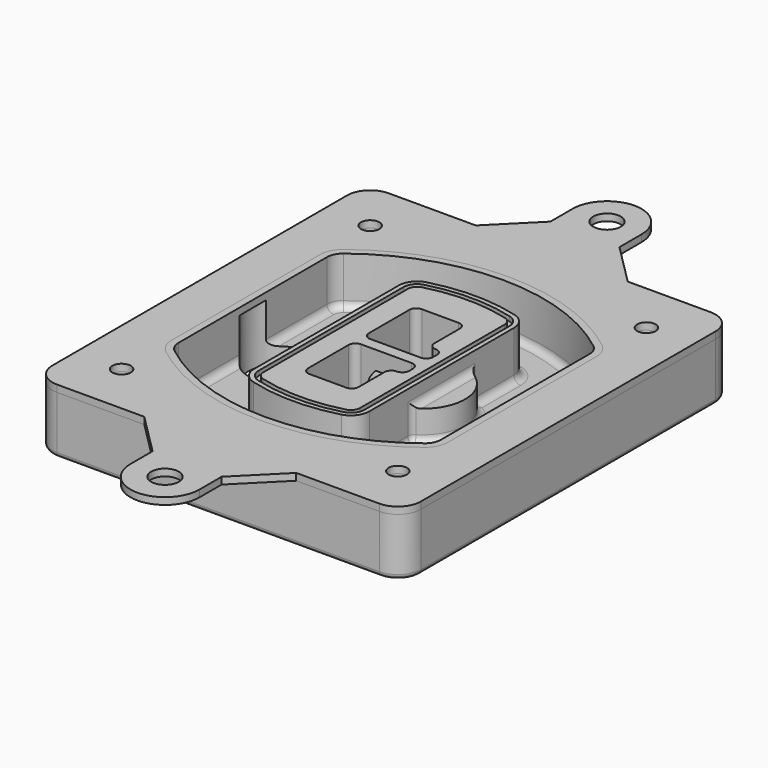
from build123d import *

# Parameters (mm, degrees)
F0_R      = 4
F1_DEPTH  = 25
F2_DEPTH  = 3
F3_DEPTH  = 18
F5_DEPTH  = 21
F6_DEPTH  = 2
F8_DEPTH  = 20
F9_DEPTH  = 16
F10_DEPTH = 25
F7_R      = 6
F7_R_2    = 4
F11_DEPTH = 6
F13_DEPTH = 9
F14_R     = 3
F15_R     = 2
F16_R     = 6
F16_R_2   = 4
F17_DEPTH = 3


with BuildPart() as f1:
    # F0 (on Top) → F1 (new body)
    with BuildSketch(Plane.XY):
        with BuildLine():
            ThreePointArc((-80, -80), (-77.0710678119, -87.0710678119), (-70, -90))
            Line((-70, -90), (70, -90))
            ThreePointArc((70, -90), (77.0710678119, -87.0710678119), (80, -80))
            Line((80, -80), (80, 80))
            ThreePointArc((80, 80), (77.0710678119, 87.0710678119), (70, 90))
            Line((70, 90), (-70, 90))
            ThreePointArc((-70, 90), (-77.0710678119, 87.0710678119), (-80, 80))
            Line((-80, 80), (-80, -80))
        make_face()
        with Locations((-60, -67.5)):
            Circle(F0_R, mode=Mode.SUBTRACT)
        with Locations((60, -67.5)):
            Circle(F0_R, mode=Mode.SUBTRACT)
        with Locations((-60, 67.5)):
            Circle(F0_R, mode=Mode.SUBTRACT)
        with BuildLine():
            ThreePointArc((-64, 40.2934422872), (-62.5820384798, 46.4328484224), (-58.6153846154, 51.3286200352))
            ThreePointArc((-58.6153846154, 51.3286200352), (0, 71.5), (58.6153846154, 51.3286200352))
            ThreePointArc((58.6153846154, 51.3286200352), (62.5820384798, 46.4328484224), (64, 40.2934422872))
            Line((64, 40.2934422872), (64, -40.2934422872))
            ThreePointArc((64, -40.2934422872), (62.5820384798, -46.4328484224), (58.6153846154, -51.3286200352))
            ThreePointArc((58.6153846154, -51.3286200352), (0, -71.5), (-58.6153846154, -51.3286200352))
            ThreePointArc((-58.6153846154, -51.3286200352), (-62.5820384798, -46.4328484224), (-64, -40.2934422872))
            Line((-64, -40.2934422872), (-64, 40.2934422872))
        make_face(mode=Mode.SUBTRACT)
        with Locations((60, 67.5)):
            Circle(F0_R, mode=Mode.SUBTRACT)
        with BuildLine():
            ThreePointArc((58.6153846154, 51.3286200352), (0, 71.5), (-58.6153846154, 51.3286200352))
            ThreePointArc((-58.6153846154, 51.3286200352), (-62.5820384798, 46.4328484224), (-64, 40.2934422872))
            Line((-64, 40.2934422872), (-64, -40.2934422872))
            ThreePointArc((-64, -40.2934422872), (-62.5820384798, -46.4328484224), (-58.6153846154, -51.3286200352))
            ThreePointArc((-58.6153846154, -51.3286200352), (0, -71.5), (58.6153846154, -51.3286200352))
            ThreePointArc((58.6153846154, -51.3286200352), (62.5820384798, -46.4328484224), (64, -40.2934422872))
            Line((64, -40.2934422872), (64, 40.2934422872))
            ThreePointArc((64, 40.2934422872), (62.5820384798, 46.4328484224), (58.6153846154, 51.3286200352))
        make_face()
        with BuildLine():
            Line((-60, -40.2934422872), (-60, 40.2934422872))
            ThreePointArc((-60, 40.2934422872), (-58.9871703427, 44.6787323838), (-56.1538461538, 48.1757121072))
            ThreePointArc((-56.1538461538, 48.1757121072), (0, 67.5), (56.1538461538, 48.1757121072))
            ThreePointArc((56.1538461538, 48.1757121072), (58.9871703427, 44.6787323838), (60, 40.2934422872))
            Line((60, 40.2934422872), (60, -40.2934422872))
            ThreePointArc((60, -40.2934422872), (58.9871703427, -44.6787323838), (56.1538461538, -48.1757121072))
            ThreePointArc((56.1538461538, -48.1757121072), (0, -67.5), (-56.1538461538, -48.1757121072))
            ThreePointArc((-56.1538461538, -48.1757121072), (-58.9871703427, -44.6787323838), (-60, -40.2934422872))
        make_face(mode=Mode.SUBTRACT)
        with BuildLine():
            ThreePointArc((-56.1538461538, 48.1757121072), (-58.9871703427, 44.6787323838), (-60, 40.2934422872))
            Line((-60, 40.2934422872), (-60, -40.2934422872))
            ThreePointArc((-60, -40.2934422872), (-58.9871703427, -44.6787323838), (-56.1538461538, -48.1757121072))
            ThreePointArc((-56.1538461538, -48.1757121072), (0, -67.5), (56.1538461538, -48.1757121072))
            ThreePointArc((56.1538461538, -48.1757121072), (58.9871703427, -44.6787323838), (60, -40.2934422872))
            Line((60, -40.2934422872), (60, 40.2934422872))
            ThreePointArc((60, 40.2934422872), (58.9871703427, 44.6787323838), (56.1538461538, 48.1757121072))
            ThreePointArc((56.1538461538, 48.1757121072), (0, 67.5), (-56.1538461538, 48.1757121072))
        make_face()
        with BuildLine():
            ThreePointArc((54.3076923077, 45.8110311612), (56.2910192399, 43.3631453548), (57, 40.2934422872))
            Line((57, 40.2934422872), (57, -40.2934422872))
            ThreePointArc((57, -40.2934422872), (56.2910192399, -43.3631453548), (54.3076923077, -45.8110311612))
            ThreePointArc((54.3076923077, -45.8110311612), (0, -64.5), (-54.3076923077, -45.8110311612))
            ThreePointArc((-54.3076923077, -45.8110311612), (-56.2910192399, -43.3631453548), (-57, -40.2934422872))
            Line((-57, -40.2934422872), (-57, 40.2934422872))
            ThreePointArc((-57, 40.2934422872), (-56.2910192399, 43.3631453548), (-54.3076923077, 45.8110311612))
            ThreePointArc((-54.3076923077, 45.8110311612), (0, 64.5), (54.3076923077, 45.8110311612))
        make_face(mode=Mode.SUBTRACT)
        with BuildLine():
            Line((57, -40.2934422872), (57, 40.2934422872))
            ThreePointArc((57, 40.2934422872), (56.2910192399, 43.3631453548), (54.3076923077, 45.8110311612))
            ThreePointArc((54.3076923077, 45.8110311612), (0, 64.5), (-54.3076923077, 45.8110311612))
            ThreePointArc((-54.3076923077, 45.8110311612), (-56.2910192399, 43.3631453548), (-57, 40.2934422872))
            Line((-57, 40.2934422872), (-57, -40.2934422872))
            ThreePointArc((-57, -40.2934422872), (-56.2910192399, -43.3631453548), (-54.3076923077, -45.8110311612))
            ThreePointArc((-54.3076923077, -45.8110311612), (0, -64.5), (54.3076923077, -45.8110311612))
            ThreePointArc((54.3076923077, -45.8110311612), (56.2910192399, -43.3631453548), (57, -40.2934422872))
        make_face()
    extrude(amount=-F1_DEPTH)

    # F0 (on Top) → F2 (join)
    with BuildSketch(Plane.XY):
        with BuildLine():
            ThreePointArc((-56.1538461538, 48.1757121072), (-58.9871703427, 44.6787323838), (-60, 40.2934422872))
            Line((-60, 40.2934422872), (-60, -40.2934422872))
            ThreePointArc((-60, -40.2934422872), (-58.9871703427, -44.6787323838), (-56.1538461538, -48.1757121072))
            ThreePointArc((-56.1538461538, -48.1757121072), (0, -67.5), (56.1538461538, -48.1757121072))
            ThreePointArc((56.1538461538, -48.1757121072), (58.9871703427, -44.6787323838), (60, -40.2934422872))
            Line((60, -40.2934422872), (60, 40.2934422872))
            ThreePointArc((60, 40.2934422872), (58.9871703427, 44.6787323838), (56.1538461538, 48.1757121072))
            ThreePointArc((56.1538461538, 48.1757121072), (0, 67.5), (-56.1538461538, 48.1757121072))
        make_face()
        with BuildLine():
            ThreePointArc((54.3076923077, 45.8110311612), (56.2910192399, 43.3631453548), (57, 40.2934422872))
            Line((57, 40.2934422872), (57, -40.2934422872))
            ThreePointArc((57, -40.2934422872), (56.2910192399, -43.3631453548), (54.3076923077, -45.8110311612))
            ThreePointArc((54.3076923077, -45.8110311612), (0, -64.5), (-54.3076923077, -45.8110311612))
            ThreePointArc((-54.3076923077, -45.8110311612), (-56.2910192399, -43.3631453548), (-57, -40.2934422872))
            Line((-57, -40.2934422872), (-57, 40.2934422872))
            ThreePointArc((-57, 40.2934422872), (-56.2910192399, 43.3631453548), (-54.3076923077, 45.8110311612))
            ThreePointArc((-54.3076923077, 45.8110311612), (0, 64.5), (54.3076923077, 45.8110311612))
        make_face(mode=Mode.SUBTRACT)
    extrude(amount=F2_DEPTH)

    # F0 (on Top) → F3 (cut)
    with BuildSketch(Plane.XY):
        with BuildLine():
            Line((57, -40.2934422872), (57, 40.2934422872))
            ThreePointArc((57, 40.2934422872), (56.2910192399, 43.3631453548), (54.3076923077, 45.8110311612))
            ThreePointArc((54.3076923077, 45.8110311612), (0, 64.5), (-54.3076923077, 45.8110311612))
            ThreePointArc((-54.3076923077, 45.8110311612), (-56.2910192399, 43.3631453548), (-57, 40.2934422872))
            Line((-57, 40.2934422872), (-57, -40.2934422872))
            ThreePointArc((-57, -40.2934422872), (-56.2910192399, -43.3631453548), (-54.3076923077, -45.8110311612))
            ThreePointArc((-54.3076923077, -45.8110311612), (0, -64.5), (54.3076923077, -45.8110311612))
            ThreePointArc((54.3076923077, -45.8110311612), (56.2910192399, -43.3631453548), (57, -40.2934422872))
        make_face()
    extrude(amount=-F3_DEPTH, mode=Mode.SUBTRACT)

    # F4 (on face) → F5 (join, through all)
    with BuildSketch(Plane.XY.offset(3)):
        with BuildLine():
            ThreePointArc((-25, -39.2465276821), (-23.3511545998, -44.1109737193), (-19.0842911877, -46.9702398883))
            ThreePointArc((-19.0842911877, -46.9702398883), (0, -49.5), (19.0842911877, -46.9702398883))
            ThreePointArc((19.0842911877, -46.9702398883), (23.3511545998, -44.1109737193), (25, -39.2465276821))
            Line((25, -39.2465276821), (25, 39.2465276821))
            ThreePointArc((25, 39.2465276821), (23.3511545998, 44.1109737193), (19.0842911877, 46.9702398883))
            ThreePointArc((19.0842911877, 46.9702398883), (0, 49.5), (-19.0842911877, 46.9702398883))
            ThreePointArc((-19.0842911877, 46.9702398883), (-23.3511545998, 44.1109737193), (-25, 39.2465276821))
            Line((-25, 39.2465276821), (-25, -39.2465276821))
        make_face()
        with BuildLine():
            ThreePointArc((18.5632183908, 45.0393118368), (21.7633659499, 42.89486221), (23, 39.2465276821))
            Line((23, 39.2465276821), (23, -39.2465276821))
            ThreePointArc((23, -39.2465276821), (21.7633659499, -42.89486221), (18.5632183908, -45.0393118368))
            ThreePointArc((18.5632183908, -45.0393118368), (0, -47.5), (-18.5632183908, -45.0393118368))
            ThreePointArc((-18.5632183908, -45.0393118368), (-21.7633659499, -42.89486221), (-23, -39.2465276821))
            Line((-23, -39.2465276821), (-23, 39.2465276821))
            ThreePointArc((-23, 39.2465276821), (-21.7633659499, 42.89486221), (-18.5632183908, 45.0393118368))
            ThreePointArc((-18.5632183908, 45.0393118368), (0, 47.5), (18.5632183908, 45.0393118368))
        make_face(mode=Mode.SUBTRACT)
        with BuildLine():
            Line((23, -39.2465276821), (23, 39.2465276821))
            ThreePointArc((23, 39.2465276821), (21.7633659499, 42.89486221), (18.5632183908, 45.0393118368))
            ThreePointArc((18.5632183908, 45.0393118368), (0, 47.5), (-18.5632183908, 45.0393118368))
            ThreePointArc((-18.5632183908, 45.0393118368), (-21.7633659499, 42.89486221), (-23, 39.2465276821))
            Line((-23, 39.2465276821), (-23, -39.2465276821))
            ThreePointArc((-23, -39.2465276821), (-21.7633659499, -42.89486221), (-18.5632183908, -45.0393118368))
            ThreePointArc((-18.5632183908, -45.0393118368), (0, -47.5), (18.5632183908, -45.0393118368))
            ThreePointArc((18.5632183908, -45.0393118368), (21.7633659499, -42.89486221), (23, -39.2465276821))
        make_face()
        with BuildLine():
            ThreePointArc((18.0421455939, 43.1083837852), (20.1755772999, 41.6787507007), (21, 39.2465276821))
            Line((21, 39.2465276821), (21, -39.2465276821))
            ThreePointArc((21, -39.2465276821), (20.1755772999, -41.6787507007), (18.0421455939, -43.1083837852))
            ThreePointArc((18.0421455939, -43.1083837852), (0, -45.5), (-18.0421455939, -43.1083837852))
            ThreePointArc((-18.0421455939, -43.1083837852), (-20.1755772999, -41.6787507007), (-21, -39.2465276821))
            Line((-21, -39.2465276821), (-21, 39.2465276821))
            ThreePointArc((-21, 39.2465276821), (-20.1755772999, 41.6787507007), (-18.0421455939, 43.1083837852))
            ThreePointArc((-18.0421455939, 43.1083837852), (0, 45.5), (18.0421455939, 43.1083837852))
        make_face(mode=Mode.SUBTRACT)
        with BuildLine():
            Line((21, -39.2465276821), (21, 39.2465276821))
            ThreePointArc((21, 39.2465276821), (20.1755772999, 41.6787507007), (18.0421455939, 43.1083837852))
            ThreePointArc((18.0421455939, 43.1083837852), (0, 45.5), (-18.0421455939, 43.1083837852))
            ThreePointArc((-18.0421455939, 43.1083837852), (-20.1755772999, 41.6787507007), (-21, 39.2465276821))
            Line((-21, 39.2465276821), (-21, -39.2465276821))
            ThreePointArc((-21, -39.2465276821), (-20.1755772999, -41.6787507007), (-18.0421455939, -43.1083837852))
            ThreePointArc((-18.0421455939, -43.1083837852), (0, -45.5), (18.0421455939, -43.1083837852))
            ThreePointArc((18.0421455939, -43.1083837852), (20.1755772999, -41.6787507007), (21, -39.2465276821))
        make_face()
        with BuildLine():
            Line((-8, -2.5), (14, -2.5))
            ThreePointArc((14, -2.5), (16.1213203436, -3.3786796564), (17, -5.5))
            Line((17, -5.5), (17, -7.5))
            ThreePointArc((17, -7.5), (16.1213203436, -9.6213203436), (14, -10.5))
            ThreePointArc((14, -10.5), (11.8786796564, -11.3786796564), (11, -13.5))
            Line((11, -13.5), (11, -27.5))
            ThreePointArc((11, -27.5), (10.1213203436, -29.6213203436), (8, -30.5))
            Line((8, -30.5), (-8, -30.5))
            ThreePointArc((-8, -30.5), (-10.1213203436, -29.6213203436), (-11, -27.5))
            Line((-11, -27.5), (-11, -5.5))
            ThreePointArc((-11, -5.5), (-10.1213203436, -3.3786796564), (-8, -2.5))
        make_face(mode=Mode.SUBTRACT)
        with BuildLine():
            ThreePointArc((-8, 2.5), (-10.1213203436, 3.3786796564), (-11, 5.5))
            Line((-11, 5.5), (-11, 27.5))
            ThreePointArc((-11, 27.5), (-10.1213203436, 29.6213203436), (-8, 30.5))
            Line((-8, 30.5), (8, 30.5))
            ThreePointArc((8, 30.5), (10.1213203436, 29.6213203436), (11, 27.5))
            Line((11, 27.5), (11, 13.5))
            ThreePointArc((11, 13.5), (11.8786796564, 11.3786796564), (14, 10.5))
            ThreePointArc((14, 10.5), (16.1213203436, 9.6213203436), (17, 7.5))
            Line((17, 7.5), (17, 5.5))
            ThreePointArc((17, 5.5), (16.1213203436, 3.3786796564), (14, 2.5))
            Line((14, 2.5), (-8, 2.5))
        make_face(mode=Mode.SUBTRACT)
    extrude(amount=-F5_DEPTH)

    # F4 (on face) → F6 (cut)
    with BuildSketch(Plane.XY.offset(3)):
        with BuildLine():
            Line((23, -39.2465276821), (23, 39.2465276821))
            ThreePointArc((23, 39.2465276821), (21.7633659499, 42.89486221), (18.5632183908, 45.0393118368))
            ThreePointArc((18.5632183908, 45.0393118368), (0, 47.5), (-18.5632183908, 45.0393118368))
            ThreePointArc((-18.5632183908, 45.0393118368), (-21.7633659499, 42.89486221), (-23, 39.2465276821))
            Line((-23, 39.2465276821), (-23, -39.2465276821))
            ThreePointArc((-23, -39.2465276821), (-21.7633659499, -42.89486221), (-18.5632183908, -45.0393118368))
            ThreePointArc((-18.5632183908, -45.0393118368), (0, -47.5), (18.5632183908, -45.0393118368))
            ThreePointArc((18.5632183908, -45.0393118368), (21.7633659499, -42.89486221), (23, -39.2465276821))
        make_face()
        with BuildLine():
            ThreePointArc((18.0421455939, 43.1083837852), (20.1755772999, 41.6787507007), (21, 39.2465276821))
            Line((21, 39.2465276821), (21, -39.2465276821))
            ThreePointArc((21, -39.2465276821), (20.1755772999, -41.6787507007), (18.0421455939, -43.1083837852))
            ThreePointArc((18.0421455939, -43.1083837852), (0, -45.5), (-18.0421455939, -43.1083837852))
            ThreePointArc((-18.0421455939, -43.1083837852), (-20.1755772999, -41.6787507007), (-21, -39.2465276821))
            Line((-21, -39.2465276821), (-21, 39.2465276821))
            ThreePointArc((-21, 39.2465276821), (-20.1755772999, 41.6787507007), (-18.0421455939, 43.1083837852))
            ThreePointArc((-18.0421455939, 43.1083837852), (0, 45.5), (18.0421455939, 43.1083837852))
        make_face(mode=Mode.SUBTRACT)
    extrude(amount=-F6_DEPTH, mode=Mode.SUBTRACT)

    # F7 (on face) → F8 (join)
    with BuildSketch(Plane(origin=(0, 0, -25), x_dir=(1, 0, 0), z_dir=(0, 0, -1))):
        with BuildLine():
            ThreePointArc((3.28842436, 0), (16.7567035675, 13.4682792075), (30.224982775, 0))
            Line((30.224982775, 0), (35.224982775, 0))
            ThreePointArc((35.224982775, 0), (16.7567035675, 18.4682792075), (-1.71157564, 0))
            Line((-1.71157564, 0), (3.28842436, 0))
        make_face()
        with BuildLine():
            Line((3.28842436, 0), (30.224982775, 0))
            ThreePointArc((30.224982775, 0), (16.7567035675, 13.4682792075), (3.28842436, 0))
        make_face()
        with BuildLine():
            ThreePointArc((3.28842436, 0), (16.7567035675, -13.4682792075), (30.224982775, 0))
            Line((30.224982775, 0), (3.28842436, 0))
        make_face()
        with BuildLine():
            Line((35.224982775, 0), (30.224982775, 0))
            ThreePointArc((30.224982775, 0), (16.7567035675, -13.4682792075), (3.28842436, 0))
            Line((3.28842436, 0), (-1.71157564, 0))
            ThreePointArc((-1.71157564, 0), (16.7567035675, -18.4682792075), (35.224982775, 0))
        make_face()
    extrude(amount=-F8_DEPTH)

    # F7 (on face) → F9 (cut)
    with BuildSketch(Plane(origin=(0, 0, -25), x_dir=(1, 0, 0), z_dir=(0, 0, -1))):
        with BuildLine():
            Line((3.28842436, 0), (30.224982775, 0))
            ThreePointArc((30.224982775, 0), (16.7567035675, 13.4682792075), (3.28842436, 0))
        make_face()
        with BuildLine():
            ThreePointArc((3.28842436, 0), (16.7567035675, -13.4682792075), (30.224982775, 0))
            Line((30.224982775, 0), (3.28842436, 0))
        make_face()
    extrude(amount=-F9_DEPTH, mode=Mode.SUBTRACT)

    # F7 (on face) → F10 (cut)
    with BuildSketch(Plane(origin=(0, 0, -25), x_dir=(1, 0, 0), z_dir=(0, 0, -1))):
        with BuildLine():
            Line((-59.0318229325, 0), (-32.0952645175, 0))
            ThreePointArc((-32.0952645175, 0), (-45.563543725, 13.4682792075), (-59.0318229325, 0))
        make_face()
        with BuildLine():
            ThreePointArc((-59.0318229325, 0), (-45.563543725, -13.4682792075), (-32.0952645175, 0))
            Line((-32.0952645175, 0), (-59.0318229325, 0))
        make_face()
    extrude(amount=-F10_DEPTH, mode=Mode.SUBTRACT)

    # F7 (on face) → F11 (cut)
    with BuildSketch(Plane(origin=(0, 0, -25), x_dir=(1, 0, 0), z_dir=(0, 0, -1))):
        with Locations((60, -67.5)):
            Circle(F7_R)
        with Locations((60, -67.5)):
            Circle(F7_R_2, mode=Mode.SUBTRACT)
        with Locations((60, -67.5)):
            Circle(F7_R)
        with Locations((60, -67.5)):
            Circle(F7_R_2, mode=Mode.SUBTRACT)
        with Locations((-60, -67.5)):
            Circle(F7_R)
        with Locations((-60, -67.5)):
            Circle(F7_R_2, mode=Mode.SUBTRACT)
        with Locations((-60, -67.5)):
            Circle(F7_R)
        with Locations((-60, -67.5)):
            Circle(F7_R_2, mode=Mode.SUBTRACT)
        with Locations((-60, 67.5)):
            Circle(F7_R)
        with Locations((-60, 67.5)):
            Circle(F7_R_2, mode=Mode.SUBTRACT)
        with Locations((-60, 67.5)):
            Circle(F7_R)
        with Locations((-60, 67.5)):
            Circle(F7_R_2, mode=Mode.SUBTRACT)
        with Locations((60, 67.5)):
            Circle(F7_R)
        with Locations((60, 67.5)):
            Circle(F7_R_2, mode=Mode.SUBTRACT)
        with Locations((60, 67.5)):
            Circle(F7_R)
        with Locations((60, 67.5)):
            Circle(F7_R_2, mode=Mode.SUBTRACT)
    extrude(amount=-F11_DEPTH, mode=Mode.SUBTRACT)

    # F12 (on face) → F13 (cut, through all)
    with BuildSketch(Plane(origin=(0, 0, -9), x_dir=(1, 0, 0), z_dir=(0, 0, -1))):
        with BuildLine():
            Line((11, 13.5), (11, 17.5481537753))
            ThreePointArc((11, 17.5481537753), (2.5696536419, 11.8239143813), (-1.5415842455, 2.5))
            Line((-1.5415842455, 2.5), (3.5224848595, 2.5))
            ThreePointArc((3.5224848595, 2.5), (6.1857188154, 8.3455872281), (11.2536447004, 12.2927168648))
            ThreePointArc((11.2536447004, 12.2927168648), (11.0640958889, 12.8831798879), (11, 13.5))
        make_face()
        with BuildLine():
            ThreePointArc((11.2536447004, -12.2927168648), (6.1857188154, -8.3455872281), (3.5224848595, -2.5))
            Line((3.5224848595, -2.5), (-1.5415842455, -2.5))
            ThreePointArc((-1.5415842455, -2.5), (2.5696536419, -11.8239143813), (11, -17.5481537753))
            Line((11, -17.5481537753), (11, -13.5))
            ThreePointArc((11, -13.5), (11.0640958889, -12.8831798879), (11.2536447004, -12.2927168648))
        make_face()
        with BuildLine():
            ThreePointArc((11.2536447004, 12.2927168648), (6.1857188154, 8.3455872281), (3.5224848595, 2.5))
            Line((3.5224848595, 2.5), (14, 2.5))
            ThreePointArc((14, 2.5), (16.1213203436, 3.3786796564), (17, 5.5))
            Line((17, 5.5), (17, 7.5))
            ThreePointArc((17, 7.5), (16.1213203436, 9.6213203436), (14, 10.5))
            ThreePointArc((14, 10.5), (12.3601599782, 10.9878446101), (11.2536447004, 12.2927168648))
        make_face()
        with BuildLine():
            Line((14, -2.5), (3.5224848595, -2.5))
            ThreePointArc((3.5224848595, -2.5), (6.1857188154, -8.3455872281), (11.2536447004, -12.2927168648))
            ThreePointArc((11.2536447004, -12.2927168648), (12.3601599782, -10.9878446101), (14, -10.5))
            ThreePointArc((14, -10.5), (16.1213203436, -9.6213203436), (17, -7.5))
            Line((17, -7.5), (17, -5.5))
            ThreePointArc((17, -5.5), (16.1213203436, -3.3786796564), (14, -2.5))
        make_face()
    extrude(amount=F13_DEPTH, mode=Mode.SUBTRACT)

    # F14
    f14_edges = [f1.edges().sort_by_distance(p)[0] for p in [
        (-57, -23.703476, -18),
        (-57, 23.703476, -18),
        (25, 0, -5),
        (25, 16.526506, -11.5),
        (25, -16.526506, -11.5),
        (25, -27.886517, -18),
        (35.224983, 0, -18),
    ]]
    fillet(f14_edges, radius=F14_R)

    # F15
    f15_edges = [f1.edges().sort_by_distance(p)[0] for p in [
        (0, -90, -25),
    ]]
    fillet(f15_edges, radius=F15_R)


with BuildPart() as f17:
    # F16 (on face) → F17 (new body, through all)
    with BuildSketch(Plane.XY):
        with BuildLine():
            Line((33.8762053707, -90), (-32.1237946293, -90))
            Line((-32.1237946293, -90), (-14.1237946293, -108))
            Line((-14.1237946293, -108), (-14.1237946293, -120))
            ThreePointArc((-14.1237946293, -120), (0.8762053707, -135), (15.8762053707, -120))
            Line((15.8762053707, -120), (15.8762053707, -108))
            Line((15.8762053707, -108), (33.8762053707, -90))
        make_face()
        with Locations((0.8762053707, -120)):
            Circle(F16_R, mode=Mode.SUBTRACT)
        with BuildLine():
            Line((-14.1237946293, 108), (-32.1237946293, 90))
            Line((-32.1237946293, 90), (33.8762053707, 90))
            Line((33.8762053707, 90), (15.8762053707, 108))
            Line((15.8762053707, 108), (15.8762053707, 120))
            ThreePointArc((15.8762053707, 120), (0.8762053707, 135), (-14.1237946293, 120))
            Line((-14.1237946293, 120), (-14.1237946293, 108))
        make_face()
        with Locations((0.8762053707, 120)):
            Circle(F16_R, mode=Mode.SUBTRACT)
        with BuildLine():
            Line((33.8762053707, 90), (-32.1237946293, 90))
            Line((-32.1237946293, 90), (-70, 90))
            ThreePointArc((-70, 90), (-77.0710678119, 87.0710678119), (-80, 80))
            Line((-80, 80), (-80, -80))
            ThreePointArc((-80, -80), (-77.0710678119, -87.0710678119), (-70, -90))
            Line((-70, -90), (-32.1237946293, -90))
            Line((-32.1237946293, -90), (33.8762053707, -90))
            Line((33.8762053707, -90), (70, -90))
            ThreePointArc((70, -90), (77.0710678119, -87.0710678119), (80, -80))
            Line((80, -80), (80, 80))
            ThreePointArc((80, 80), (77.0710678119, 87.0710678119), (70, 90))
            Line((70, 90), (33.8762053707, 90))
        make_face()
        with Locations((-60, -67.5)):
            Circle(F16_R_2, mode=Mode.SUBTRACT)
        with Locations((60, -67.5)):
            Circle(F16_R_2, mode=Mode.SUBTRACT)
        with Locations((-60, 67.5)):
            Circle(F16_R_2, mode=Mode.SUBTRACT)
        with BuildLine():
            ThreePointArc((-60, 40.2934422872), (-58.9871703427, 44.6787323838), (-56.1538461538, 48.1757121072))
            ThreePointArc((-56.1538461538, 48.1757121072), (0, 67.5), (56.1538461538, 48.1757121072))
            ThreePointArc((56.1538461538, 48.1757121072), (58.9871703427, 44.6787323838), (60, 40.2934422872))
            Line((60, 40.2934422872), (60, -40.2934422872))
            ThreePointArc((60, -40.2934422872), (58.9871703427, -44.6787323838), (56.1538461538, -48.1757121072))
            ThreePointArc((56.1538461538, -48.1757121072), (0, -67.5), (-56.1538461538, -48.1757121072))
            ThreePointArc((-56.1538461538, -48.1757121072), (-58.9871703427, -44.6787323838), (-60, -40.2934422872))
            Line((-60, -40.2934422872), (-60, 40.2934422872))
        make_face(mode=Mode.SUBTRACT)
        with Locations((60, 67.5)):
            Circle(F16_R_2, mode=Mode.SUBTRACT)
    extrude(amount=F17_DEPTH)


solid = Compound([f1.part, f17.part])
